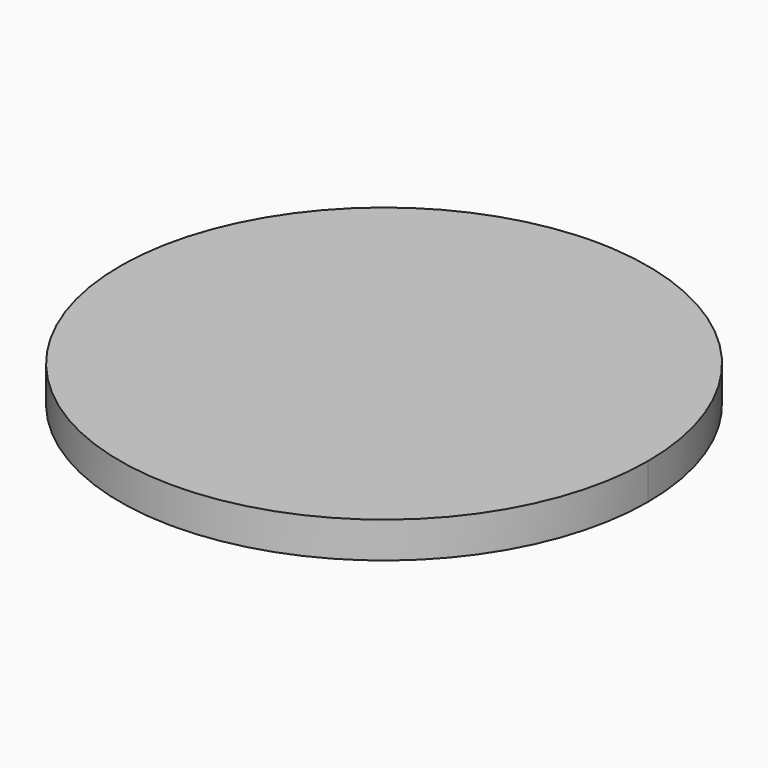
from build123d import *

# Parameters (mm, degrees)
F0_R     = 17.4625
F0_W     = 19.05
F0_H     = 6.35
F1_DEPTH = 19.05


with BuildPart() as f1:
    # F0 (on Top) → F1 (new body)
    with BuildSketch(Plane.XY):
        with BuildLine():
            ThreePointArc((-9.525, 139.374906), (-95.355775, -102.094888), (139.7, 0))
            ThreePointArc((139.7, 0), (102.094888, 95.355775), (9.525, 139.374906))
            Line((9.525, 139.374906), (9.525, 120.324906))
            Line((9.525, 120.324906), (9.525, 113.974906))
            Line((9.525, 113.974906), (-9.525, 113.974906))
            Line((-9.525, 113.974906), (-9.525, 120.324906))
            Line((-9.525, 120.324906), (-9.525, 139.374906))
        make_face()
        with Locations((101.439818, 36.921074)):
            Circle(F0_R, mode=Mode.SUBTRACT)
        with Locations((36.921074, 101.439818)):
            Circle(F0_R, mode=Mode.SUBTRACT)
        with Locations((76.332177, 76.332177)):
            Circle(F0_R, mode=Mode.SUBTRACT)
        with BuildLine():
            Line((9.525, 120.324906), (9.525, 139.374906))
            ThreePointArc((9.525, 139.374906), (0, 139.7), (-9.525, 139.374906))
            Line((-9.525, 139.374906), (-9.525, 120.324906))
            Line((-9.525, 120.324906), (9.525, 120.324906))
        make_face()
        with Locations((36.921074, 101.439818)):
            Circle(F0_R)
        with Locations((76.332177, 76.332177)):
            Circle(F0_R)
        with Locations((101.439818, 36.921074)):
            Circle(F0_R)
        with Locations((0, 117.149906)):
            Rectangle(F0_W, F0_H)
    extrude(amount=-F1_DEPTH)


solid = f1.part
